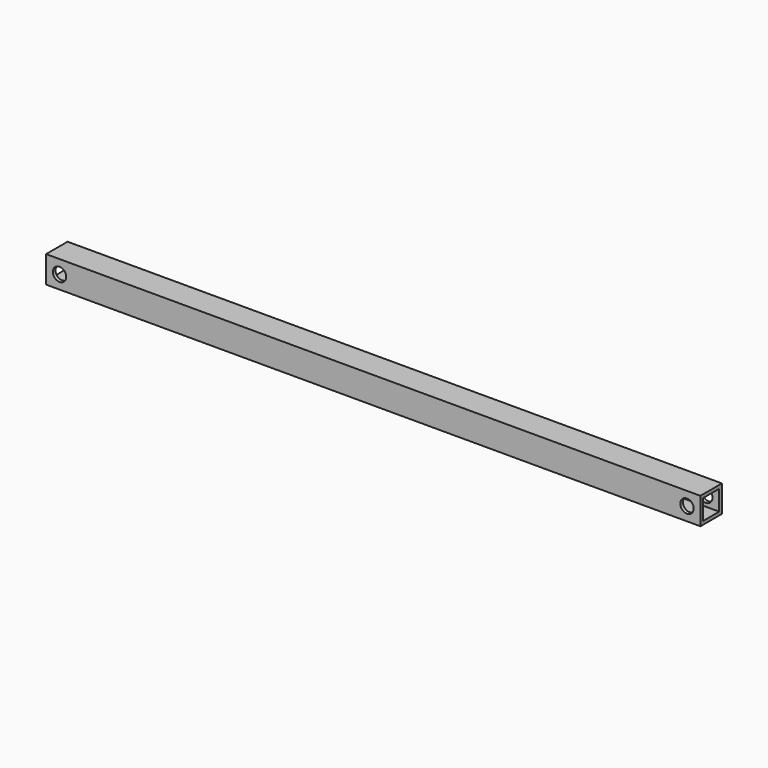
from build123d import *

# Parameters (mm, degrees)
F0_R     = 6.35
F1_DEPTH = 15.875
F2_DEPTH = 25.4
F3_W     = 19.05
F3_H     = 19.05
F4_DEPTH = 618.600804


with BuildPart() as f1:
    # F0 (on Front) → F1 (new body)
    with BuildSketch(Plane.XZ):
        Polygon((301.713325, -54.802002), (-291.486479, -54.802002), (-304.186479, -54.802002), (-304.186479, -80.202002), (-291.486479, -80.202002), (301.713325, -80.202002), (314.413325, -80.202002), (314.413325, -54.802002), align=None)
        with Locations((-291.486479, -67.502002)):
            Circle(F0_R, mode=Mode.SUBTRACT)
        with Locations((301.713325, -67.502002)):
            Circle(F0_R, mode=Mode.SUBTRACT)
    extrude(amount=F1_DEPTH)

    # F0 (on Front) → F2 (join)
    with BuildSketch(Plane.XZ):
        Polygon((301.713325, -54.802002), (-291.486479, -54.802002), (-304.186479, -54.802002), (-304.186479, -80.202002), (-291.486479, -80.202002), (301.713325, -80.202002), (314.413325, -80.202002), (314.413325, -54.802002), align=None)
        with Locations((-291.486479, -67.502002)):
            Circle(F0_R, mode=Mode.SUBTRACT)
        with Locations((301.713325, -67.502002)):
            Circle(F0_R, mode=Mode.SUBTRACT)
    extrude(amount=F2_DEPTH)

    # F3 (on face) → F4 (cut, through all)
    with BuildSketch(Plane.YZ.offset(314.413325)):
        with Locations((-12.7, -67.502002)):
            Rectangle(F3_W, F3_H)
    extrude(amount=-F4_DEPTH, mode=Mode.SUBTRACT)


solid = f1.part
